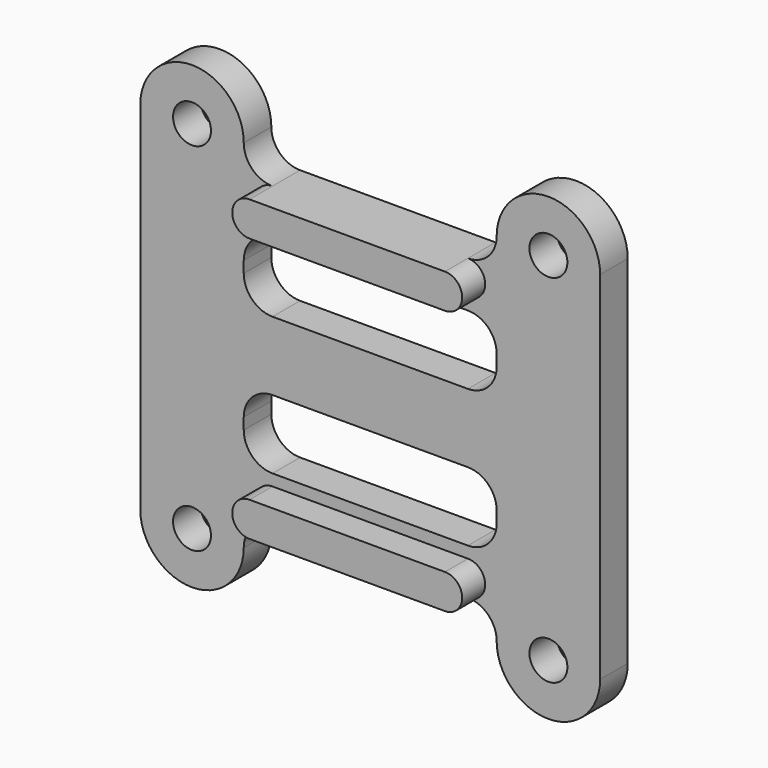
from build123d import *

# Parameters (mm, degrees)
F0_R     = 1.65
F1_DEPTH = 3
F3_DEPTH = 2.5


with BuildPart() as f1:
    # F0 (on Front) → F1 (new body)
    with BuildSketch(Plane.XZ):
        with BuildLine():
            ThreePointArc((-8.5, 13), (-10.267767, 13.732233), (-11, 15.5))
            ThreePointArc((-11, 15.5), (-15.5, 20), (-20, 15.5))
            Line((-20, 15.5), (-20, -15.5))
            ThreePointArc((-20, -15.5), (-15.5, -20), (-11, -15.5))
            ThreePointArc((-11, -15.5), (-10.267767, -13.732233), (-8.5, -13))
            Line((-8.5, -13), (8.5, -13))
            ThreePointArc((8.5, -13), (10.267767, -13.732233), (11, -15.5))
            ThreePointArc((11, -15.5), (15.5, -20), (20, -15.5))
            Line((20, -15.5), (20, 15.5))
            ThreePointArc((20, 15.5), (15.5, 20), (11, 15.5))
            ThreePointArc((11, 15.5), (10.267767, 13.732233), (8.5, 13))
            Line((8.5, 13), (-8.5, 13))
        make_face()
        with Locations((-15.5, -15.5)):
            Circle(F0_R, mode=Mode.SUBTRACT)
        with Locations((15.5, -15.5)):
            Circle(F0_R, mode=Mode.SUBTRACT)
        with BuildLine():
            Line((-8.5, -3), (8.5, -3))
            ThreePointArc((8.5, -3), (10.267767, -3.732233), (11, -5.5))
            Line((11, -5.5), (11, -6.5))
            ThreePointArc((11, -6.5), (10.267767, -8.267767), (8.5, -9))
            Line((8.5, -9), (-8.5, -9))
            ThreePointArc((-8.5, -9), (-10.267767, -8.267767), (-11, -6.5))
            Line((-11, -6.5), (-11, -5.5))
            ThreePointArc((-11, -5.5), (-10.267767, -3.732233), (-8.5, -3))
        make_face(mode=Mode.SUBTRACT)
        with Locations((-15.5, 15.5)):
            Circle(F0_R, mode=Mode.SUBTRACT)
        with BuildLine():
            ThreePointArc((11, 5.5), (10.267767, 3.732233), (8.5, 3))
            Line((8.5, 3), (-8.5, 3))
            ThreePointArc((-8.5, 3), (-10.267767, 3.732233), (-11, 5.5))
            Line((-11, 5.5), (-11, 6.5))
            ThreePointArc((-11, 6.5), (-10.267767, 8.267767), (-8.5, 9))
            Line((-8.5, 9), (8.5, 9))
            ThreePointArc((8.5, 9), (10.267767, 8.267767), (11, 6.5))
            Line((11, 6.5), (11, 5.5))
        make_face(mode=Mode.SUBTRACT)
        with Locations((15.5, 15.5)):
            Circle(F0_R, mode=Mode.SUBTRACT)
    extrude(amount=F1_DEPTH)

    # F2 (on face) → F3 (join)
    with BuildSketch(Plane.XZ.offset(3)):
        with BuildLine():
            Line((8.5, -10), (-8.5, -10))
            ThreePointArc((-8.5, -10), (-10, -11.5), (-8.5, -13))
            Line((-8.5, -13), (8.5, -13))
            ThreePointArc((8.5, -13), (10, -11.5), (8.5, -10))
        make_face()
        with BuildLine():
            ThreePointArc((-8.5, 13), (-10, 11.5), (-8.5, 10))
            Line((-8.5, 10), (8.5, 10))
            ThreePointArc((8.5, 10), (10, 11.5), (8.5, 13))
            Line((8.5, 13), (-8.5, 13))
        make_face()
    extrude(amount=F3_DEPTH)


solid = f1.part
